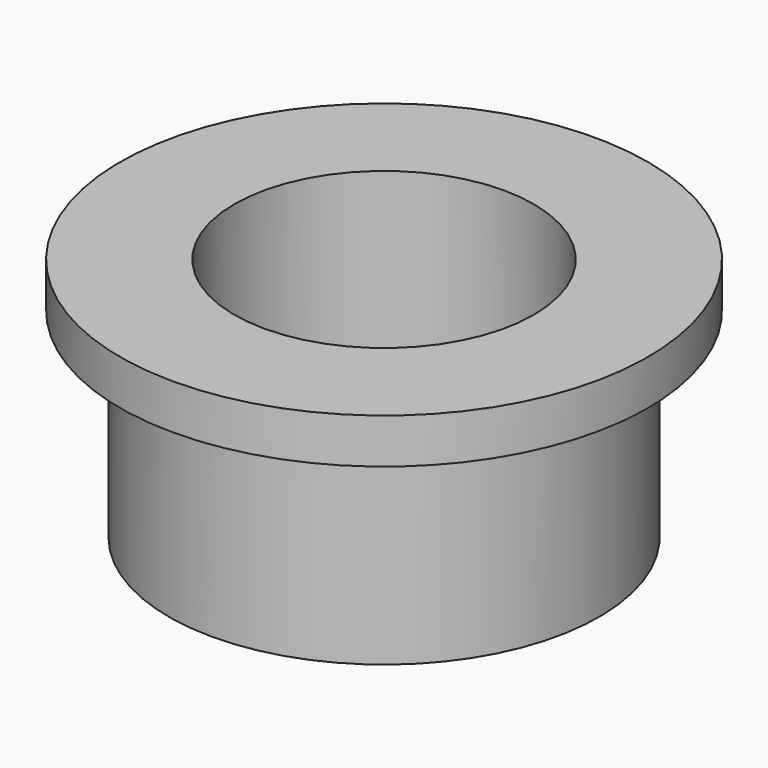
from build123d import *

# Parameters (mm, degrees)
F2_R     = 3.375
F3_DEPTH = 6.76984


with BuildPart() as f1:
    # F0 (on Right) → F1 (revolve)
    with BuildSketch(Plane.YZ):
        Polygon((-5.948178, 4.5), (-4.85, 4.5), (-4.85, 0), (0, 0), (0, 5.51296), (-5.948178, 5.51296), align=None)
    revolve(axis=Axis((0, 0, 2.75648), (0, 0, -1)))

    # F2 (on Top) → F3 (cut)
    with BuildSketch(Plane.XY):
        Circle(F2_R)
    extrude(amount=F3_DEPTH, mode=Mode.SUBTRACT)


solid = f1.part
